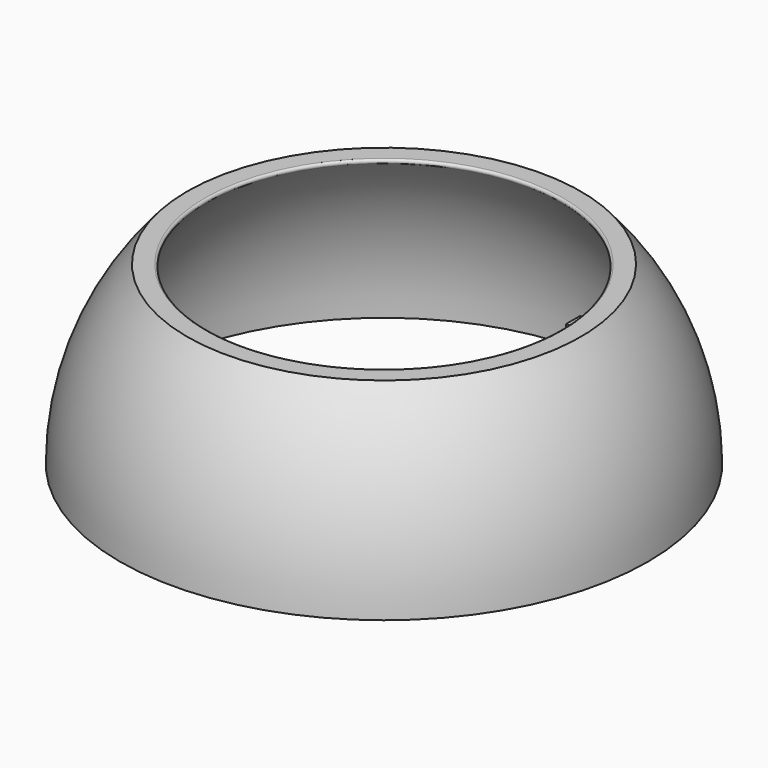
from build123d import *

# Parameters (mm, degrees)
F3_W     = 4
F3_H     = 4
F4_DEPTH = 5
F5_COUNT = 4
F6_R     = 0.5


with BuildPart() as f2:
    # F1 (on Front) → F2 (revolve)
    with BuildSketch(Plane.XZ):
        with BuildLine():
            Line((-39.477081959, 40), (-44.72135955, 40))
            ThreePointArc((-44.72135955, 40), (-56.0503415378, 21.4093253864), (-60, 0))
            Line((-60, 0), (-56.2, 0))
            ThreePointArc((-56.2, 0), (-51.8509980912, 21.6774997855), (-39.477081959, 40))
        make_face()
    revolve(axis=Axis((0, 0, 23.963239044), (0, 0, 1)))

    # F3 (on Right) → F4 (join)
    with BuildSketch(Plane.YZ):
        with Locations((53.7137534916, 5)):
            Rectangle(F3_W, F3_H)
    extrude(amount=F4_DEPTH)

    # F5: F2 ×4 about axis
    f5_axis = Axis((0, 0, 30), (0, 0, 1))


with BuildPart() as f2_1:
    add(f2.part)
    for i in range(1, F5_COUNT):
        add(f2.part.rotate(f5_axis, i * 360 / F5_COUNT))

    # F6
    f6_edges = [f2_1.edges().sort_by_distance(p)[0] for p in [
        (39.477082, 0, 40),
    ]]
    fillet(f6_edges, radius=F6_R)


solid = f2_1.part
